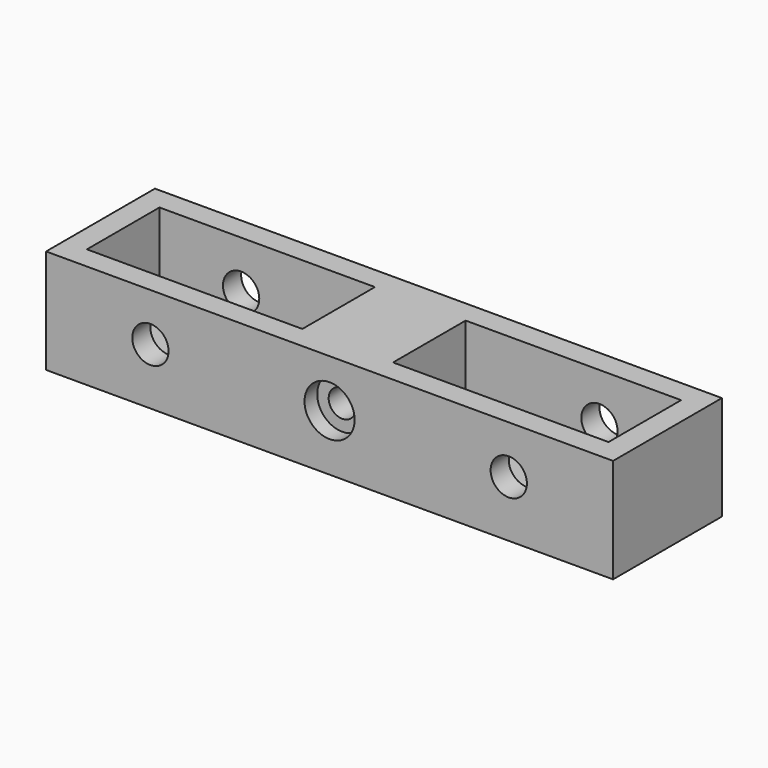
from build123d import *

# Parameters (mm, degrees)
SKETCH_W        = 250
SKETCH_H        = 46
PAD_DEPTH       = 60
SKETCH001_R     = 8
SKETCH001_R_2   = 6
POCKET_DEPTH    = 60.001
SKETCH002_W     = 95
SKETCH002_H     = 40
POCKET001_DEPTH = 40
SKETCH003_R     = 11.05
POCKET002_DEPTH = 7


with BuildPart() as part:
    # Sketch → Pad (new body)
    with BuildSketch(Plane.XZ):
        with Locations((0, -1.847977)):
            Rectangle(SKETCH_W, SKETCH_H)
    extrude(amount=-PAD_DEPTH)

    # Sketch001 → Pocket (cut, through all)
    with BuildSketch(Plane.XZ):
        with Locations((-79, 0)):
            Circle(SKETCH001_R)
        Circle(SKETCH001_R_2)
        with Locations((79, 0)):
            Circle(SKETCH001_R)
    extrude(amount=-POCKET_DEPTH, mode=Mode.SUBTRACT)

    # Sketch002 → Pocket001 (cut)
    with BuildSketch(Plane(origin=(0, 0, 21.152023), x_dir=(-1, 0, 0), z_dir=(0, 0, 1))):
        with Locations((-67.5, -30)):
            Rectangle(SKETCH002_W, SKETCH002_H)
        with Locations((67.5, -30)):
            Rectangle(SKETCH002_W, SKETCH002_H)
    extrude(amount=-POCKET001_DEPTH, mode=Mode.SUBTRACT)

    # Sketch003 → Pocket002 (cut)
    with BuildSketch(Plane.XZ):
        Circle(SKETCH003_R)
    extrude(amount=-POCKET002_DEPTH, mode=Mode.SUBTRACT)


solid = part.part
